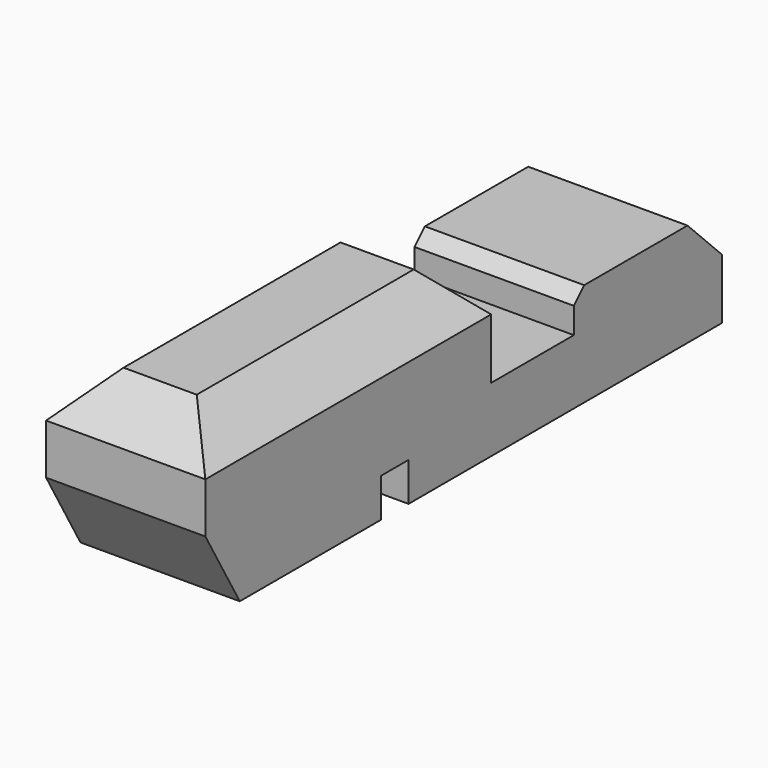
from build123d import *

# Parameters (mm, degrees)
F0_W     = 9.398
F0_H     = 38.1
F1_DEPTH = 6.096
F2_W     = 9.398
F2_H     = 3.048
F3_DEPTH = 2.286
F4_W     = 9.398
F4_H     = 1.016
F5_DEPTH = 2.286
F6_SIZE2 = 4.3994090512
F6_SIZE  = 2.54
F7_SIZE  = 2.54
F8_DEPTH = 3.81
F9_SIZE  = 2.54
F10_SIZE = 0.762


with BuildPart() as f1:
    # F0 (on Top) → F1 (new body)
    with BuildSketch(Plane.XY):
        Rectangle(F0_W, F0_H)
    extrude(amount=F1_DEPTH)

    # F2 (on face) → F3 (cut)
    with BuildSketch(Plane.XY.offset(6.096)):
        with Locations((0, 6.604)):
            Rectangle(F2_W, F2_H)
        with Locations((0, 3.556)):
            Rectangle(F2_W, F2_H)
    extrude(amount=-F3_DEPTH, mode=Mode.SUBTRACT)

    # F4 (on face) → F5 (cut)
    with BuildSketch(Plane(origin=(0, 0, 0), x_dir=(1, 0, 0), z_dir=(0, 0, -1))):
        with Locations((0, 5.588)):
            Rectangle(F4_W, F4_H)
        with Locations((0, 4.572)):
            Rectangle(F4_W, F4_H)
    extrude(amount=-F5_DEPTH, mode=Mode.SUBTRACT)

    # F6
    f6_edges = [f1.edges().sort_by_distance(p)[0] for p in [
        (0, -19.05, 0),
    ]]
    f6_side = f1.faces().sort_by_distance((0, -12.573, 0))[0]
    chamfer(f6_edges, length=F6_SIZE, length2=F6_SIZE2, reference=f6_side)

    # F7
    f7_edges = [f1.edges().sort_by_distance(p)[0] for p in [
        (0, 19.05, 6.096),
    ]]
    chamfer(f7_edges, length=F7_SIZE)

    # F8 (add): a face of the model
    f8_faces = [f1.faces().sort_by_distance(p)[0] for p in [
        (0, -8.509, 6.096),
    ]]
    extrude(f8_faces, amount=F8_DEPTH)

    # F9
    f9_edges = [f1.edges().sort_by_distance(p)[0] for p in [
        (0, 2.032, 9.906),
        (0, -19.05, 9.906),
        (-4.699, -8.509, 9.906),
        (4.699, -8.509, 9.906),
    ]]
    chamfer(f9_edges, length=F9_SIZE)

    # F10
    f10_edges = [f1.edges().sort_by_distance(p)[0] for p in [
        (0, 8.128, 6.096),
    ]]
    chamfer(f10_edges, length=F10_SIZE)


solid = f1.part
